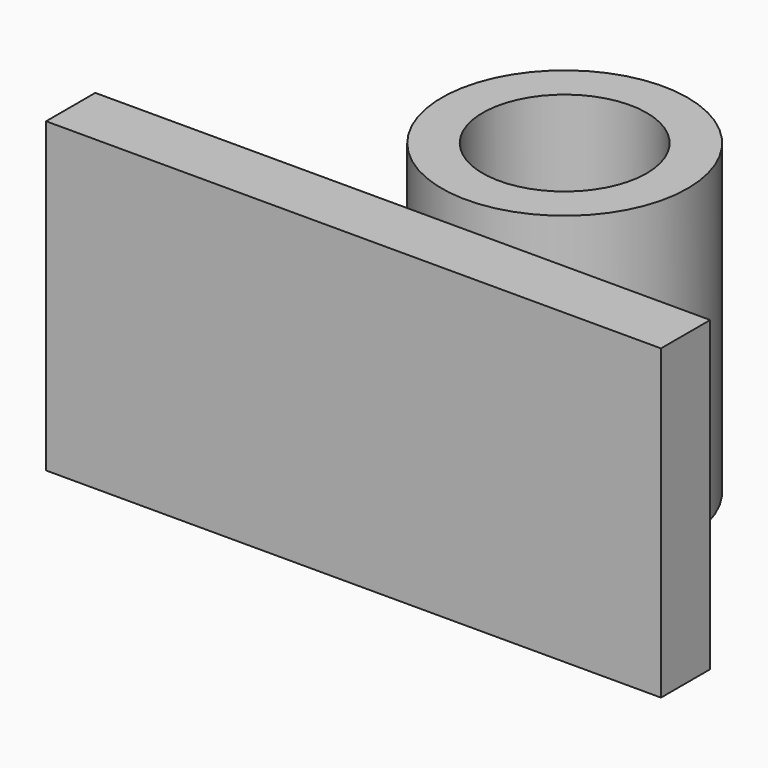
from build123d import *

# Parameters (mm, degrees)
F0_W     = 30
F0_H     = 3
F0_R     = 6
F0_R_2   = 4
F1_DEPTH = 15


with BuildPart() as f1:
    # F0 (on Top) → F1 (new body)
    with BuildSketch(Plane.XY):
        with Locations((-1.551724, 1.5)):
            Rectangle(F0_W, F0_H)
        with Locations((0, 10.937501)):
            Circle(F0_R)
        with Locations((0, 10.937501)):
            Circle(F0_R_2, mode=Mode.SUBTRACT)
    extrude(amount=F1_DEPTH)


solid = f1.part
